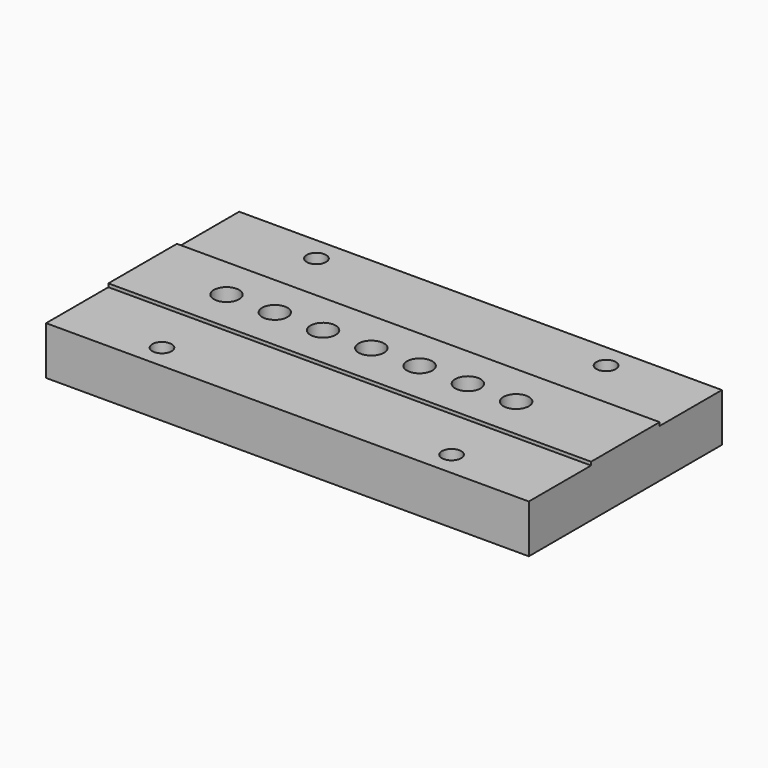
from build123d import *

# Parameters (mm, degrees)
SKETCH_W        = 100
SKETCH_H        = 50
PAD_DEPTH       = 10
SKETCH001_R     = 2
POCKET_DEPTH    = 10.001
SKETCH002_W     = 100
SKETCH002_H     = 17.75
PAD001_DEPTH    = 0.7
SKETCH003_R     = 2.625
POCKET001_DEPTH = 10.701


with BuildPart() as part:
    # Sketch → Pad (new body)
    with BuildSketch(Plane.XY):
        Rectangle(SKETCH_W, SKETCH_H)
    extrude(amount=PAD_DEPTH)

    # Sketch001 (on Face6 of Pad) → Pocket (cut, through all)
    with BuildSketch(Plane.XY.offset(10)):
        with Locations((-30, 20)):
            Circle(SKETCH001_R)
        with Locations((-30, -20)):
            Circle(SKETCH001_R)
        with Locations((30, 20)):
            Circle(SKETCH001_R)
        with Locations((30, -20)):
            Circle(SKETCH001_R)
    extrude(amount=-POCKET_DEPTH, mode=Mode.SUBTRACT)

    # Sketch002 (on Face5 of Pocket) → Pad001 (join)
    with BuildSketch(Plane.XY.offset(10)):
        Rectangle(SKETCH002_W, SKETCH002_H)
    extrude(amount=PAD001_DEPTH)

    # Sketch003 (on Face16 of Pad001) → Pocket001 (cut, through all)
    with BuildSketch(Plane.XY.offset(10.7)):
        with Locations((-32.625, 0)):
            Circle(SKETCH003_R)
        with Locations((-22.625, 0)):
            Circle(SKETCH003_R)
        with Locations((-12.625, 0)):
            Circle(SKETCH003_R)
        with Locations((-2.625, 0)):
            Circle(SKETCH003_R)
        with Locations((7.375, 0)):
            Circle(SKETCH003_R)
        with Locations((17.375, 0)):
            Circle(SKETCH003_R)
        with Locations((27.375, 0)):
            Circle(SKETCH003_R)
    extrude(amount=-POCKET001_DEPTH, mode=Mode.SUBTRACT)


solid = part.part
